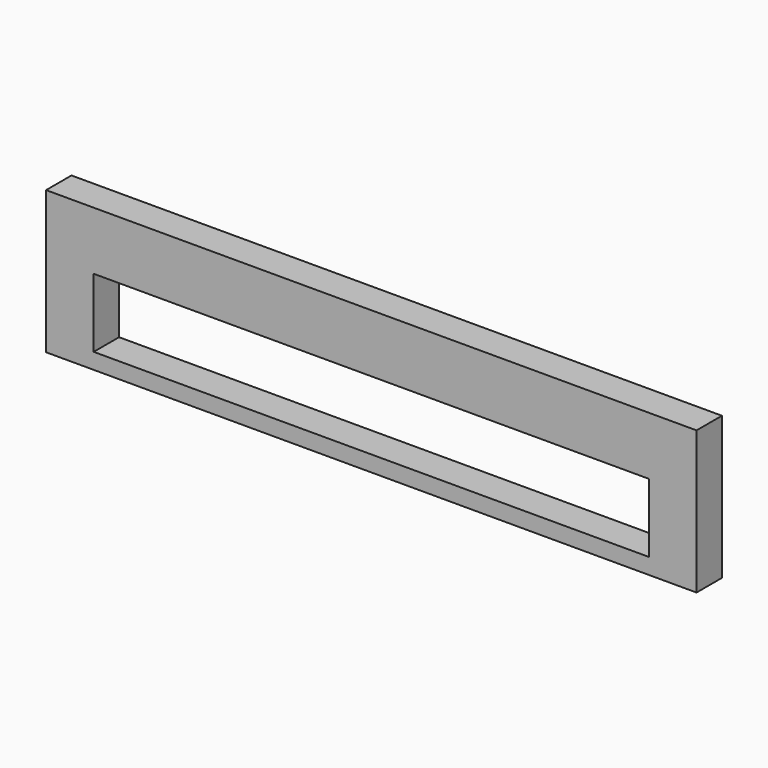
from build123d import *

# Parameters (mm, degrees)
F0_W     = 390.525
F0_H     = 85.725
F0_W_2   = 333.375
F0_H_2   = 41.275
F1_DEPTH = 9.525


with BuildPart() as f1:
    # F0 (on Front) → F1 (new body, symmetric)
    with BuildSketch(Plane.XZ):
        Rectangle(F0_W, F0_H)
        with Locations((0, -12.7)):
            Rectangle(F0_W_2, F0_H_2, mode=Mode.SUBTRACT)
    extrude(amount=F1_DEPTH, both=True)


solid = f1.part
